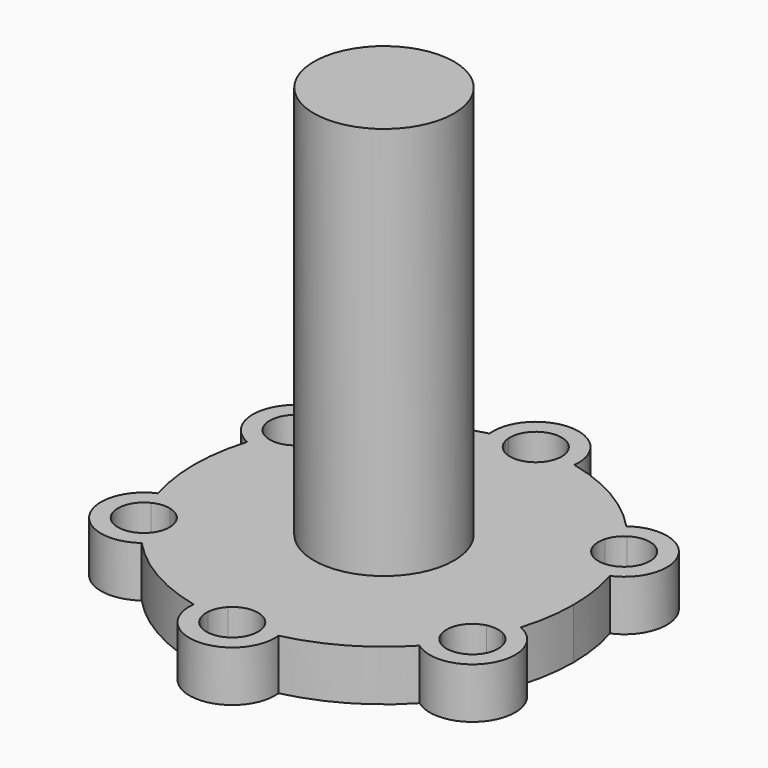
from build123d import *

# Parameters (mm, degrees)
F0_R     = 8.300329
F1_DEPTH = 52.6
F2_DEPTH = 6


with BuildPart() as f1:
    # F0 (on Top) → F1 (new body)
    with BuildSketch(Plane.XY):
        Circle(F0_R)
    extrude(amount=F1_DEPTH)

    # F0 (on Top) → F2 (join)
    with BuildSketch(Plane.XY):
        with BuildLine():
            ThreePointArc((17.74679, 13.770643), (17.113653, 14.549985), (16.44632, 15.300253))
            ThreePointArc((16.44632, 15.300253), (11.23142, 19.45339), (5.027248, 21.893057))
            ThreePointArc((5.027248, 21.893057), (4.04383, 22.095851), (3.052332, 22.254493))
            ThreePointArc((3.052332, 22.254493), (2.797639, 21.224553), (2.206503, 20.343529))
            ThreePointArc((2.206503, 20.343529), (10.23142, 17.721339), (16.514761, 12.082652))
            ThreePointArc((16.514761, 12.082652), (16.982183, 13.035103), (17.74679, 13.770643))
        make_face()
        with BuildLine():
            ThreePointArc((3.052332, 22.254493), (4.04383, 22.095851), (5.027248, 21.893057))
            ThreePointArc((5.027248, 21.893057), (0, 27.522274), (-5.027248, 21.893057))
            ThreePointArc((-5.027248, 21.893057), (-4.04383, 22.095851), (-3.052332, 22.254493))
            ThreePointArc((-3.052332, 22.254493), (-0.104234, 25.520498), (3.059434, 22.46284))
            ThreePointArc((3.059434, 22.46284), (3.057658, 22.358606), (3.052332, 22.254493))
        make_face()
        with BuildLine():
            ThreePointArc((20.799122, 8.48385), (21.157483, 7.545866), (21.473568, 6.592804))
            ThreePointArc((21.473568, 6.592804), (23.834989, 13.761137), (16.44632, 15.300253))
            ThreePointArc((16.44632, 15.300253), (17.113653, 14.549985), (17.74679, 13.770643))
            ThreePointArc((17.74679, 13.770643), (20.89195, 13.931547), (22.512824, 11.23142))
            ThreePointArc((22.512824, 11.23142), (22.049283, 9.612322), (20.799122, 8.48385))
        make_face()
        with BuildLine():
            ThreePointArc((21.473568, -6.592804), (22.214145, -3.333306), (22.46284, 0))
            ThreePointArc((22.46284, 0), (22.214145, 3.333306), (21.473568, 6.592804))
            ThreePointArc((21.473568, 6.592804), (21.157483, 7.545866), (20.799122, 8.48385))
            ThreePointArc((20.799122, 8.48385), (19.779822, 8.18945), (18.721265, 8.260876))
            ThreePointArc((18.721265, 8.260876), (20.022713, 4.221231), (20.46284, 0))
            ThreePointArc((20.46284, 0), (20.022713, -4.221231), (18.721265, -8.260876))
            ThreePointArc((18.721265, -8.260876), (19.779822, -8.18945), (20.799122, -8.48385))
            ThreePointArc((20.799122, -8.48385), (21.157483, -7.545866), (21.473568, -6.592804))
        make_face()
        with BuildLine():
            ThreePointArc((5.027248, -21.893057), (11.23142, -19.45339), (16.44632, -15.300253))
            ThreePointArc((16.44632, -15.300253), (17.113653, -14.549985), (17.74679, -13.770643))
            ThreePointArc((17.74679, -13.770643), (16.982183, -13.035103), (16.514761, -12.082652))
            ThreePointArc((16.514761, -12.082652), (10.23142, -17.721339), (2.206503, -20.343529))
            ThreePointArc((2.206503, -20.343529), (2.797639, -21.224553), (3.052332, -22.254493))
            ThreePointArc((3.052332, -22.254493), (4.04383, -22.095851), (5.027248, -21.893057))
        make_face()
        with BuildLine():
            ThreePointArc((16.44632, -15.300253), (23.834989, -13.761137), (21.473568, -6.592804))
            ThreePointArc((21.473568, -6.592804), (21.157483, -7.545866), (20.799122, -8.48385))
            ThreePointArc((20.799122, -8.48385), (22.049283, -9.612322), (22.512824, -11.23142))
            ThreePointArc((22.512824, -11.23142), (20.89195, -13.931547), (17.74679, -13.770643))
            ThreePointArc((17.74679, -13.770643), (17.113653, -14.549985), (16.44632, -15.300253))
        make_face()
        with BuildLine():
            ThreePointArc((-5.027248, -21.893057), (0, -27.522274), (5.027248, -21.893057))
            ThreePointArc((5.027248, -21.893057), (4.04383, -22.095851), (3.052332, -22.254493))
            ThreePointArc((3.052332, -22.254493), (3.057658, -22.358606), (3.059434, -22.46284))
            ThreePointArc((3.059434, -22.46284), (-0.104234, -25.520498), (-3.052332, -22.254493))
            ThreePointArc((-3.052332, -22.254493), (-4.04383, -22.095851), (-5.027248, -21.893057))
        make_face()
        with BuildLine():
            ThreePointArc((-16.44632, -15.300253), (-11.23142, -19.45339), (-5.027248, -21.893057))
            ThreePointArc((-5.027248, -21.893057), (-4.04383, -22.095851), (-3.052332, -22.254493))
            ThreePointArc((-3.052332, -22.254493), (-2.797639, -21.224553), (-2.206503, -20.343529))
            ThreePointArc((-2.206503, -20.343529), (-10.23142, -17.721339), (-16.514761, -12.082652))
            ThreePointArc((-16.514761, -12.082652), (-16.982183, -13.035103), (-17.74679, -13.770643))
            ThreePointArc((-17.74679, -13.770643), (-17.113653, -14.549985), (-16.44632, -15.300253))
        make_face()
        with BuildLine():
            ThreePointArc((-20.799122, 8.48385), (-21.157483, 7.545866), (-21.473568, 6.592804))
            ThreePointArc((-21.473568, 6.592804), (-22.46284, 0), (-21.473568, -6.592804))
            ThreePointArc((-21.473568, -6.592804), (-21.157483, -7.545866), (-20.799122, -8.48385))
            ThreePointArc((-20.799122, -8.48385), (-19.779822, -8.18945), (-18.721265, -8.260876))
            ThreePointArc((-18.721265, -8.260876), (-20.46284, 0), (-18.721265, 8.260876))
            ThreePointArc((-18.721265, 8.260876), (-19.779822, 8.18945), (-20.799122, 8.48385))
        make_face()
        with BuildLine():
            ThreePointArc((-3.052332, 22.254493), (-4.04383, 22.095851), (-5.027248, 21.893057))
            ThreePointArc((-5.027248, 21.893057), (-11.23142, 19.45339), (-16.44632, 15.300253))
            ThreePointArc((-16.44632, 15.300253), (-17.113653, 14.549985), (-17.74679, 13.770643))
            ThreePointArc((-17.74679, 13.770643), (-16.982183, 13.035103), (-16.514761, 12.082652))
            ThreePointArc((-16.514761, 12.082652), (-10.23142, 17.721339), (-2.206503, 20.343529))
            ThreePointArc((-2.206503, 20.343529), (-2.797639, 21.224553), (-3.052332, 22.254493))
        make_face()
        with BuildLine():
            ThreePointArc((-17.74679, 13.770643), (-17.113653, 14.549985), (-16.44632, 15.300253))
            ThreePointArc((-16.44632, 15.300253), (-23.834989, 13.761137), (-21.473568, 6.592804))
            ThreePointArc((-21.473568, 6.592804), (-21.157483, 7.545866), (-20.799122, 8.48385))
            ThreePointArc((-20.799122, 8.48385), (-22.102938, 12.761137), (-17.74679, 13.770643))
        make_face()
        with BuildLine():
            ThreePointArc((-21.473568, -6.592804), (-23.834989, -13.761137), (-16.44632, -15.300253))
            ThreePointArc((-16.44632, -15.300253), (-17.113653, -14.549985), (-17.74679, -13.770643))
            ThreePointArc((-17.74679, -13.770643), (-22.102938, -12.761137), (-20.799122, -8.48385))
            ThreePointArc((-20.799122, -8.48385), (-21.157483, -7.545866), (-21.473568, -6.592804))
        make_face()
        with BuildLine():
            ThreePointArc((20.46284, 0), (20.022713, 4.221231), (18.721265, 8.260876))
            ThreePointArc((18.721265, 8.260876), (16.803842, 9.701703), (16.514761, 12.082652))
            ThreePointArc((16.514761, 12.082652), (10.23142, 17.721339), (2.206503, 20.343529))
            ThreePointArc((2.206503, 20.343529), (0, 19.403406), (-2.206503, 20.343529))
            ThreePointArc((-2.206503, 20.343529), (-10.23142, 17.721339), (-16.514761, 12.082652))
            ThreePointArc((-16.514761, 12.082652), (-16.424308, 11.661301), (-16.393956, 11.23142))
            ThreePointArc((-16.393956, 11.23142), (-17.045068, 9.344591), (-18.721265, 8.260876))
            ThreePointArc((-18.721265, 8.260876), (-20.46284, 0), (-18.721265, -8.260876))
            ThreePointArc((-18.721265, -8.260876), (-17.045068, -9.344591), (-16.393956, -11.23142))
            ThreePointArc((-16.393956, -11.23142), (-16.424308, -11.661301), (-16.514761, -12.082652))
            ThreePointArc((-16.514761, -12.082652), (-10.23142, -17.721339), (-2.206503, -20.343529))
            ThreePointArc((-2.206503, -20.343529), (0, -19.403406), (2.206503, -20.343529))
            ThreePointArc((2.206503, -20.343529), (10.23142, -17.721339), (16.514761, -12.082652))
            ThreePointArc((16.514761, -12.082652), (16.803842, -9.701703), (18.721265, -8.260876))
            ThreePointArc((18.721265, -8.260876), (20.022713, -4.221231), (20.46284, 0))
        make_face()
        Circle(F0_R, mode=Mode.SUBTRACT)
    extrude(amount=F2_DEPTH)


solid = f1.part
